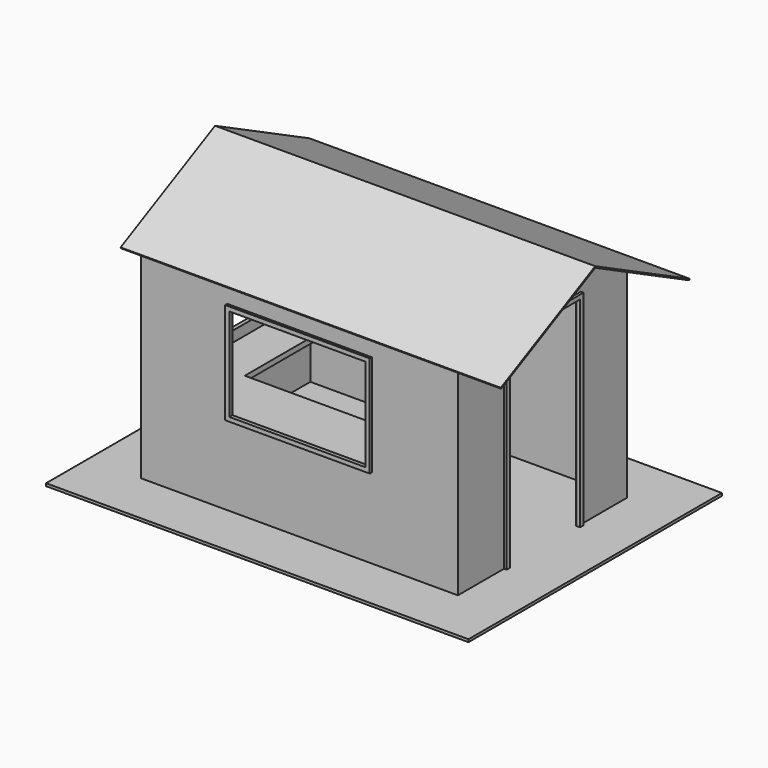
from build123d import *

# Parameters (mm, degrees)
F0_W      = 4000
F0_H      = 3000
F1_DEPTH  = 25
F2_W      = 3000
F2_H      = 2000
F2_W_2    = 2976
F2_H_2    = 1976
F3_DEPTH  = 2500
F4_W      = 900
F4_H      = 900
F4_W_2    = 820
F4_H_2    = 820
F5_DEPTH  = 25
F6_DEPTH  = 12
F7_W      = 1370
F7_H      = 960
F7_W_2    = 1290
F7_H_2    = 880
F8_DEPTH  = 25
F9_DEPTH  = 12
F11_DEPTH = 25
F10_W     = 830
F10_H     = 1900
F12_DEPTH = 25
F13_DEPTH = 3000
F14_DEPTH = 3100
F15_DEPTH = 500
F16_W     = 700
F16_H     = 50
F17_DEPTH = 2800
F18_W     = 400
F18_H     = 50
F19_DEPTH = 1276


with BuildPart() as f1:
    # F0 (on Top) → F1 (new body)
    with BuildSketch(Plane.XY):
        Rectangle(F0_W, F0_H)
    extrude(amount=F1_DEPTH)


with BuildPart() as f3:
    # F2 (on face) → F3 (new body)
    with BuildSketch(Plane.XY.offset(25)):
        Rectangle(F2_W, F2_H)
        Rectangle(F2_W_2, F2_H_2, mode=Mode.SUBTRACT)
    extrude(amount=F3_DEPTH)

    # F4 (on face) → F6 (cut, through all)
    with BuildSketch(Plane(origin=(-1500, 0, 0), x_dir=(0, -1, 0), z_dir=(-1, 0, 0))):
        with Locations((0, 1235)):
            Rectangle(F4_W_2, F4_H_2)
    extrude(amount=-F6_DEPTH, mode=Mode.SUBTRACT)

    # F7 (on face) → F9 (cut, through all)
    with BuildSketch(Plane.XZ.offset(1000)):
        with Locations((0, 1265)):
            Rectangle(F7_W_2, F7_H_2)
    extrude(amount=-F9_DEPTH, mode=Mode.SUBTRACT)

    # F10 (on face) → F12 (cut)
    with BuildSketch(Plane.YZ.offset(1500)):
        with Locations((0, 975)):
            Rectangle(F10_W, F10_H)
    extrude(amount=-F12_DEPTH, mode=Mode.SUBTRACT)

    # F10 (on face) → F13 (cut, through all)
    with BuildSketch(Plane.YZ.offset(1500)):
        Polygon((-1000, 2525), (-1000, 2025), (0, 2525), align=None)
        Polygon((0, 2525), (1000, 2025), (1000, 2525), align=None)
        Polygon((-1000, 2025), (-1000, 2011.583592135), (0, 2511.583592135), (1000, 2011.583592135), (1000, 2025), (0, 2525), align=None)
    extrude(amount=-F13_DEPTH, mode=Mode.SUBTRACT)


with BuildPart() as f5:
    # F4 (on face) → F5 (new body)
    with BuildSketch(Plane(origin=(-1500, 0, 0), x_dir=(0, -1, 0), z_dir=(-1, 0, 0))):
        with Locations((0, 1235)):
            Rectangle(F4_W, F4_H)
        with Locations((0, 1235)):
            Rectangle(F4_W_2, F4_H_2, mode=Mode.SUBTRACT)
    extrude(amount=F5_DEPTH)


with BuildPart() as f8:
    # F7 (on face) → F8 (new body)
    with BuildSketch(Plane.XZ.offset(1000)):
        with Locations((0, 1265)):
            Rectangle(F7_W, F7_H)
        with Locations((0, 1265)):
            Rectangle(F7_W_2, F7_H_2, mode=Mode.SUBTRACT)
    extrude(amount=F8_DEPTH)


with BuildPart() as f11:
    # F10 (on face) → F11 (new body)
    with BuildSketch(Plane.YZ.offset(1500)):
        Polygon((-455, 25), (-415, 25), (-415, 1925), (415, 1925), (415, 25), (455, 25), (455, 1965), (-455, 1965), align=None)
    extrude(amount=F11_DEPTH)


with BuildPart() as f14:
    # F10 (on face) → F14 (new body)
    with BuildSketch(Plane.YZ.offset(1500)):
        Polygon((-1000, 2025), (-1000, 2011.583592135), (0, 2511.583592135), (1000, 2011.583592135), (1000, 2025), (0, 2525), align=None)
        Polygon((1000, 2025), (1000, 2011.583592135), (1112.6674256039, 1955.2498793331), (1118.0339887499, 1965.9830056251), align=None)
        Polygon((-1112.6674256039, 1955.2498793331), (-1000, 2011.583592135), (-1000, 2025), (-1118.0339887499, 1965.9830056251), align=None)
    extrude(amount=-F14_DEPTH)

    # F10 (on face) → F15 (join)
    with BuildSketch(Plane.YZ.offset(1500)):
        Polygon((-1112.6674256039, 1955.2498793331), (-1000, 2011.583592135), (-1000, 2025), (-1118.0339887499, 1965.9830056251), align=None)
        Polygon((-1000, 2025), (-1000, 2011.583592135), (0, 2511.583592135), (1000, 2011.583592135), (1000, 2025), (0, 2525), align=None)
        Polygon((1000, 2025), (1000, 2011.583592135), (1112.6674256039, 1955.2498793331), (1118.0339887499, 1965.9830056251), align=None)
    extrude(amount=F15_DEPTH)


with BuildPart() as f17:
    # F16 (on face) → F17 (new body)
    with BuildSketch(Plane.YZ.offset(-1488)):
        with Locations((-638, 700)):
            Rectangle(F16_W, F16_H)
    extrude(amount=F17_DEPTH)

    # F18 (on face) → F19 (join, through all)
    with BuildSketch(Plane(origin=(0, -288, 0), x_dir=(-1, 0, 0), z_dir=(0, 1, 0))):
        with Locations((1288, 700)):
            Rectangle(F18_W, F18_H)
    extrude(amount=F19_DEPTH)


solid = Compound([f1.part, f3.part, f5.part, f8.part, f11.part, f14.part, f17.part])
